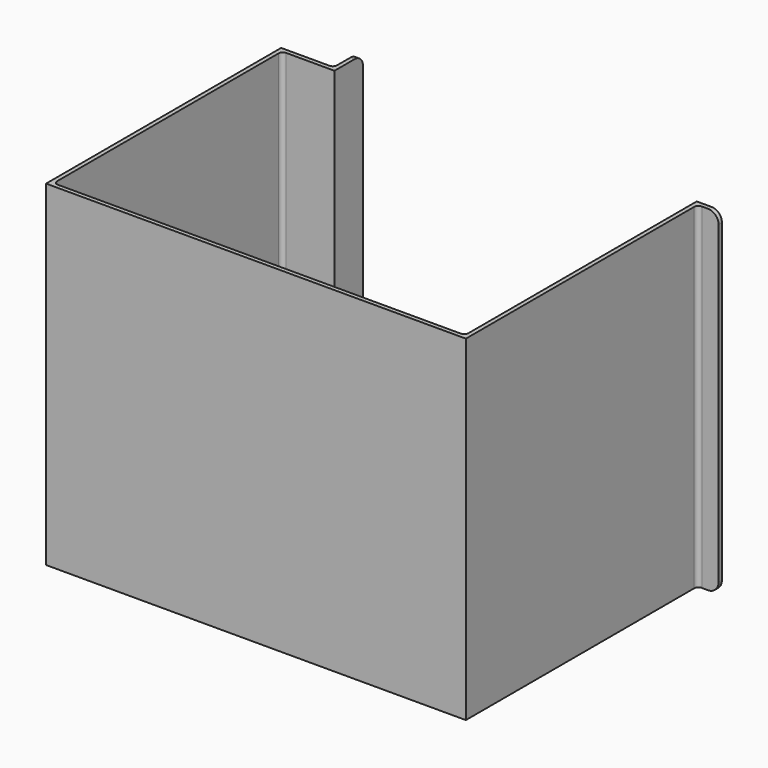
from build123d import *

# Parameters (mm, degrees)
F0_W     = 10
F0_H     = 2
F1_DEPTH = 160
F0_W_2   = 171
F2_DEPTH = 7
F3_DEPTH = 2
F4_R     = 5
F5_R     = 2


with BuildPart() as f1:
    # F0 (on Top) → F1 (new body)
    with BuildSketch(Plane.XY):
        Polygon((-106.142494, 84.517702), (-131.142494, 84.517702), (-131.142494, -55.482298), (68.857506, -55.482298), (68.857506, 82.517702), (68.857506, 84.517702), (66.857506, 84.517702), (66.857506, 82.517702), (66.857506, -53.482298), (-129.142494, -53.482298), (-129.142494, 82.517702), (-104.142494, 82.517702), (-104.142494, 84.517702), (-104.142494, 99.517702), (-106.142494, 99.517702), align=None)
        with Locations((73.857506, 83.517702)):
            Rectangle(F0_W, F0_H)
    extrude(amount=F1_DEPTH)

    # F0 (on Top) → F2 (join)
    with BuildSketch(Plane.XY):
        with Locations((-18.642494, 83.517702)):
            Rectangle(F0_W_2, F0_H)
    extrude(amount=F2_DEPTH)

    # F0 (on Top) → F3 (join)
    with BuildSketch(Plane.XY):
        Polygon((66.857506, 82.517702), (-104.142494, 82.517702), (-129.142494, 82.517702), (-129.142494, -53.482298), (66.857506, -53.482298), align=None)
    extrude(amount=F3_DEPTH)

    # F4
    f4_edges = [f1.edges().sort_by_distance(p)[0] for p in [
        (-105.142494, 99.517702, 160),
        (-105.142494, 99.517702, 0),
        (78.857506, 83.517702, 0),
        (78.857506, 83.517702, 160),
    ]]
    fillet(f4_edges, radius=F4_R)

    # F5
    f5_edges = [f1.edges().sort_by_distance(p)[0] for p in [
        (-129.142494, -53.482298, 81),
        (-31.142494, -53.482298, 2),
        (-129.142494, 14.517702, 2),
        (66.857506, 14.517702, 2),
        (66.857506, -53.482298, 81),
        (-129.142494, 82.517702, 81),
        (-31.142494, 82.517702, 2),
        (68.857506, 82.517702, 80),
        (-106.142494, 84.517702, 80),
    ]]
    fillet(f5_edges, radius=F5_R)


solid = f1.part
